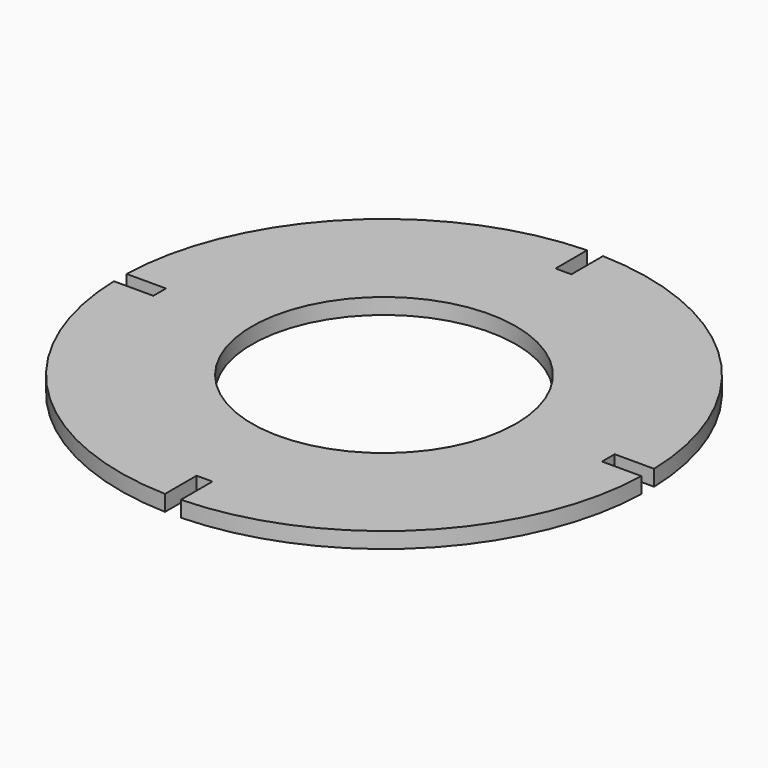
from build123d import *

# Parameters (mm, degrees)
F0_R     = 25
F1_DEPTH = 3


with BuildPart() as f1:
    # F0 (on Top) → F1 (new body)
    with BuildSketch(Plane.XY):
        with BuildLine():
            Line((-1.5, 42.5), (-1.5, 49.977495))
            ThreePointArc((-1.5, 49.977495), (-35.355339, 35.355339), (-49.977495, 1.5))
            Line((-49.977495, 1.5), (-42.5, 1.5))
            Line((-42.5, 1.5), (-42.5, -1.5))
            Line((-42.5, -1.5), (-49.977495, -1.5))
            ThreePointArc((-49.977495, -1.5), (-35.355339, -35.355339), (-1.5, -49.977495))
            Line((-1.5, -49.977495), (-1.5, -42.5))
            Line((-1.5, -42.5), (1.5, -42.5))
            Line((1.5, -42.5), (1.5, -49.977495))
            ThreePointArc((1.5, -49.977495), (35.355339, -35.355339), (49.977495, -1.5))
            Line((49.977495, -1.5), (42.5, -1.5))
            Line((42.5, -1.5), (42.5, 1.5))
            Line((42.5, 1.5), (49.977495, 1.5))
            ThreePointArc((49.977495, 1.5), (35.355339, 35.355339), (1.5, 49.977495))
            Line((1.5, 49.977495), (1.5, 42.5))
            Line((1.5, 42.5), (-1.5, 42.5))
        make_face()
        Circle(F0_R, mode=Mode.SUBTRACT)
    extrude(amount=F1_DEPTH)


solid = f1.part
